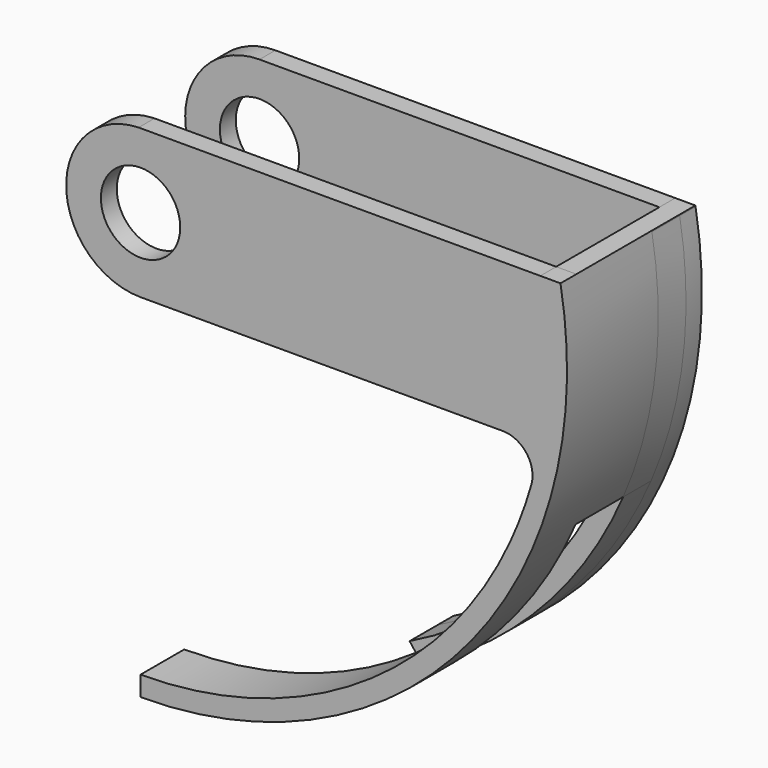
from build123d import *

# Parameters (mm, degrees)
F1_DEPTH  = 3
F4_DEPTH  = 3.5
F5_R      = 4
F6_DEPTH  = 2
F8_DEPTH  = 3.5
F9_R      = 4
F10_DEPTH = 2


with BuildPart() as f1:
    # F0 (on Front) → F1 (new body)
    with BuildSketch(Plane.XZ):
        with BuildLine():
            Line((42.3408785927, 7.5), (40.3081877539, 7.5))
            ThreePointArc((40.3081877539, 7.5), (40.6920731694, -5.0154941107), (37.2806551355, -17.0631987819))
            Line((37.2806551355, -17.0631987819), (39.4695736908, -17.0631987819))
            ThreePointArc((39.4695736908, -17.0631987819), (42.7091934986, -4.9924734046), (42.3408785927, 7.5))
        make_face()
    extrude(amount=F1_DEPTH)

    # F2: F1 across plane


with BuildPart() as f1_1:
    add(f1.part)
    add(f1.part.mirror(Plane.XZ))

    # F3 (on face) → F4 (join)
    with BuildSketch(Plane.XZ.offset(3)):
        with BuildLine():
            ThreePointArc((37.2806551355, -17.0631987819), (22.151849245, -34.5006605013), (0, -41))
            Line((0, -41), (0, -43))
            ThreePointArc((0, -43), (23.6144283477, -35.9354807093), (39.4695736908, -17.0631987819))
            Line((39.4695736908, -17.0631987819), (37.2806551355, -17.0631987819))
        make_face()
        with BuildLine():
            Line((42.3408785927, 7.5), (40.3081877539, 7.5))
            ThreePointArc((40.3081877539, 7.5), (40.6920731694, -5.0154941107), (37.2806551355, -17.0631987819))
            Line((37.2806551355, -17.0631987819), (39.4695736908, -17.0631987819))
            ThreePointArc((39.4695736908, -17.0631987819), (42.7091934986, -4.9924734046), (42.3408785927, 7.5))
        make_face()
    extrude(amount=F4_DEPTH)

    # F5 (on face) → F6 (join)
    with BuildSketch(Plane.XZ.offset(6.5)):
        with BuildLine():
            ThreePointArc((36.5205421647, -7.5), (38.9170857283, -8.6954006131), (39.4037428619, -11.3289473684))
            ThreePointArc((39.4037428619, -11.3289473684), (40.9527782079, -1.9672206414), (40.3082103224, 7.4998787062))
            Line((40.3082103224, 7.4998787062), (-0.1951071863, 7.4974617829))
            ThreePointArc((-0.1951071863, 7.4974617829), (-7.4993654189, -0.0975618479), (0, -7.5))
            Line((0, -7.5), (36.5205421647, -7.5))
        make_face()
        Circle(F5_R, mode=Mode.SUBTRACT)
        with BuildLine():
            ThreePointArc((39.4037428619, -11.3289473684), (38.4492475072, -14.2357074334), (37.2806551355, -17.0631987819))
            ThreePointArc((37.2806551355, -17.0631987819), (22.151849245, -34.5006605013), (0, -41))
            Line((0, -41), (0, -43))
            ThreePointArc((0, -43), (23.6144283477, -35.9354807093), (39.4695736908, -17.0631987819))
            ThreePointArc((39.4695736908, -17.0631987819), (42.7091934986, -4.9924734046), (42.3408785927, 7.5))
            Line((42.3408785927, 7.5), (40.3082103224, 7.4998787062))
            ThreePointArc((40.3082103224, 7.4998787062), (40.9527782079, -1.9672206414), (39.4037428619, -11.3289473684))
        make_face()
    extrude(amount=F6_DEPTH)

    # F7 (on face) → F8 (join)
    with BuildSketch(Plane(origin=(0, 3, 0), x_dir=(-1, 0, 0), z_dir=(0, 1, 0))):
        with BuildLine():
            Line((-40.3081877539, 7.5), (-42.3408785927, 7.5))
            Line((-42.3408785927, 7.5), (-42.3578410098, 7.4036008123))
            ThreePointArc((-42.3578410098, 7.4036008123), (-42.7034836956, -5.0410792753), (-39.4695736908, -17.0631987819))
            Line((-39.4695736908, -17.0631987819), (-37.2806551355, -17.0631987819))
            ThreePointArc((-37.2806551355, -17.0631987819), (-40.6920731694, -5.0154941107), (-40.3081877539, 7.5))
        make_face()
        with BuildLine():
            ThreePointArc((-17.9295521431, -36.8718206758), (-29.3280944194, -28.6507046637), (-37.2806551355, -17.0631987819))
            Line((-37.2806551355, -17.0631987819), (-39.4695736908, -17.0631987819))
            ThreePointArc((-39.4695736908, -17.0631987819), (-31.2153660392, -29.5736525143), (-19.1686619835, -38.491069065))
            Line((-19.1686619835, -38.491069065), (-17.9295521431, -36.8718206758))
        make_face()
    extrude(amount=F8_DEPTH)

    # F9 (on face) → F10 (join)
    with BuildSketch(Plane(origin=(0, 6.5, 0), x_dir=(-1, 0, 0), z_dir=(0, 1, 0))):
        with BuildLine():
            Line((0.0050283843, 7.4999983144), (-40.3081877539, 7.5))
            ThreePointArc((-40.3081877539, 7.5), (-40.9528037605, -1.9666886256), (-39.4040031085, -11.3280421532))
            ThreePointArc((-39.4040031085, -11.3280421532), (-38.9173062041, -8.6945341056), (-36.5207833689, -7.4991610201))
            Line((-36.5207833689, -7.4991610201), (0.1121784082, -7.4991610201))
            ThreePointArc((0.1121784082, -7.4991610201), (7.4998086337, 0.0535766476), (0.0050283843, 7.4999983144))
        make_face()
        Circle(F9_R, mode=Mode.SUBTRACT)
        with BuildLine():
            Line((-40.3081877539, 7.5), (-42.3408785927, 7.5))
            Line((-42.3408785927, 7.5), (-42.3578410098, 7.4036008123))
            ThreePointArc((-42.3578410098, 7.4036008123), (-38.3791326561, -19.3918069444), (-19.1686619835, -38.491069065))
            Line((-19.1686619835, -38.491069065), (-17.9295521431, -36.8718206758))
            ThreePointArc((-17.9295521431, -36.8718206758), (-31.3832008366, -26.3836067521), (-39.4040031085, -11.3280421532))
            ThreePointArc((-39.4040031085, -11.3280421532), (-40.9528037605, -1.9666886256), (-40.3081877539, 7.5))
        make_face()
    extrude(amount=F10_DEPTH)


solid = f1_1.part
